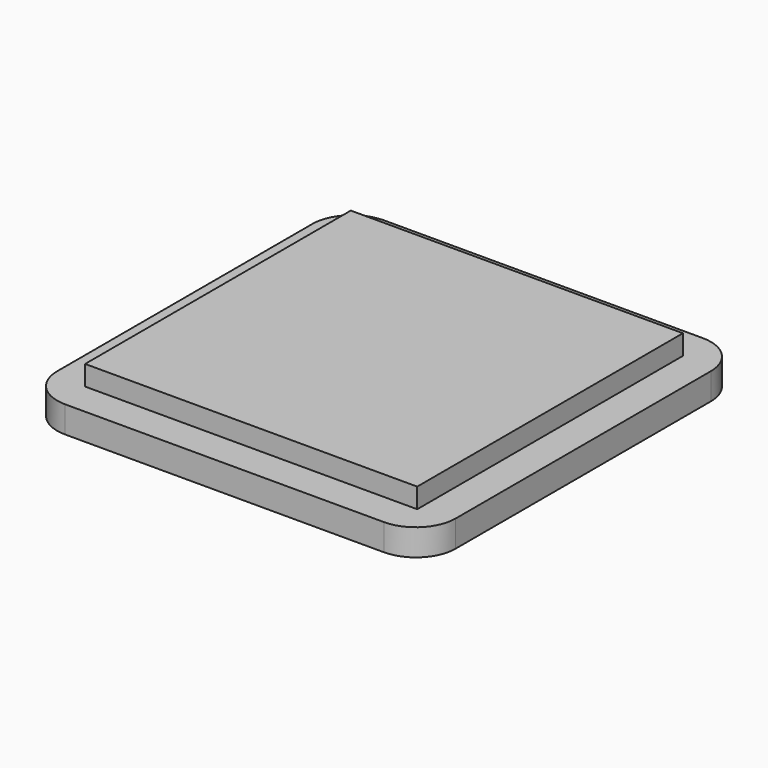
from build123d import *

# Parameters (mm, degrees)
SKETCH_W     = 30
SKETCH_H     = 30
PAD_DEPTH    = 2
SKETCH001_W  = 25
SKETCH001_H  = 25
PAD001_DEPTH = 1.5
FILLET_R     = 3


with BuildPart() as part:
    # Sketch → Pad (new body)
    with BuildSketch(Plane.XY):
        with Locations((-15, 15)):
            Rectangle(SKETCH_W, SKETCH_H)
    extrude(amount=PAD_DEPTH)

    # Sketch001 (on Face6 of Pad) → Pad001 (join)
    with BuildSketch(Plane.XY.offset(2)):
        with Locations((-15, 15)):
            Rectangle(SKETCH001_W, SKETCH001_H)
    extrude(amount=PAD001_DEPTH)

    # Fillet
    fillet_edges = [part.edges().sort_by_distance(p)[0] for p in [
        (-30, 0, 1),
        (0, 0, 1),
        (0, 30, 1),
        (-30, 30, 1),
    ]]
    fillet(fillet_edges, radius=FILLET_R)


solid = part.part
